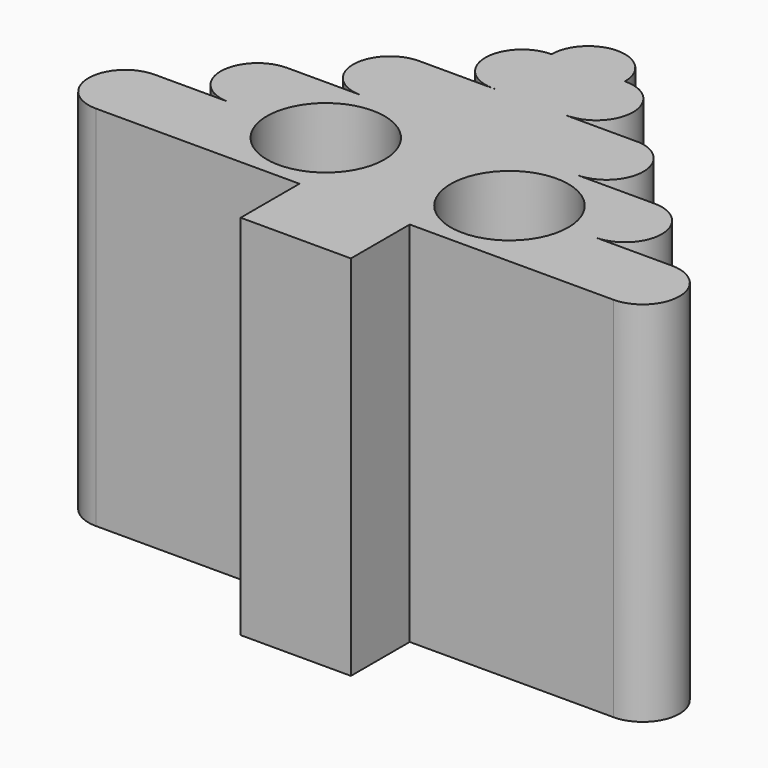
from build123d import *

# Parameters (mm, degrees)
F0_R     = 0.8
F1_DEPTH = 5


with BuildPart() as f1:
    # F0 (on Top) → F1 (new body)
    with BuildSketch(Plane.XY):
        with BuildLine():
            Line((-38.15, 10.406882), (-39.15, 10.406882))
            ThreePointArc((-39.15, 10.406882), (-39.65, 9.906882), (-39.15, 9.406882))
            Line((-39.15, 9.406882), (-36.65, 9.406882))
            Line((-36.65, 9.406882), (-36.379843, 9.406882))
            Line((-36.379843, 9.406882), (-36.379843, 8.406882))
            Line((-36.379843, 8.406882), (-34.879843, 8.406882))
            Line((-34.879843, 8.406882), (-34.879585, 9.406882))
            Line((-34.879585, 9.406882), (-34.609, 9.406882))
            Line((-34.609, 9.406882), (-32.1093, 9.406882))
            ThreePointArc((-32.1093, 9.406882), (-31.6093, 9.906882), (-32.1093, 10.406882))
            Line((-32.1093, 10.406882), (-33.15, 10.406882))
            ThreePointArc((-33.15, 10.406882), (-32.65, 10.906882), (-33.15, 11.406882))
            Line((-33.15, 11.406882), (-34.200608, 11.406882))
            ThreePointArc((-34.200608, 11.406882), (-33.701251, 11.881525), (-34.149958, 12.40431))
            Line((-34.149958, 12.40431), (-34.250404, 12.404397))
            Line((-34.250404, 12.404397), (-35.097748, 12.405123))
            Line((-35.097748, 12.405123), (-35.140822, 12.40516))
            Line((-35.140822, 12.40516), (-35.183041, 12.405196))
            ThreePointArc((-35.183041, 12.405196), (-35.16195, 12.406535), (-35.140822, 12.406982))
            ThreePointArc((-35.140822, 12.406982), (-34.640847, 12.911984), (-35.150825, 13.406882))
            ThreePointArc((-35.150825, 13.406882), (-35.650825, 13.906882), (-36.150825, 13.406882))
            ThreePointArc((-36.150825, 13.406882), (-36.650825, 12.906882), (-36.150826, 12.406882))
            ThreePointArc((-36.150826, 12.406882), (-36.135982, 12.406661), (-36.121151, 12.406))
            Line((-36.121151, 12.406), (-36.179645, 12.40605))
            Line((-36.179645, 12.40605), (-37.15, 12.406882))
            ThreePointArc((-37.15, 12.406882), (-37.65, 11.906882), (-37.15, 11.406882))
            Line((-37.15, 11.406882), (-38.15, 11.406882))
            ThreePointArc((-38.15, 11.406882), (-38.65, 10.906882), (-38.15, 10.406882))
        make_face()
        with Locations((-36.822334, 10.406882)):
            Circle(F0_R, mode=Mode.SUBTRACT)
        with Locations((-34.322334, 10.406882)):
            Circle(F0_R, mode=Mode.SUBTRACT)
    extrude(amount=F1_DEPTH)


solid = f1.part
